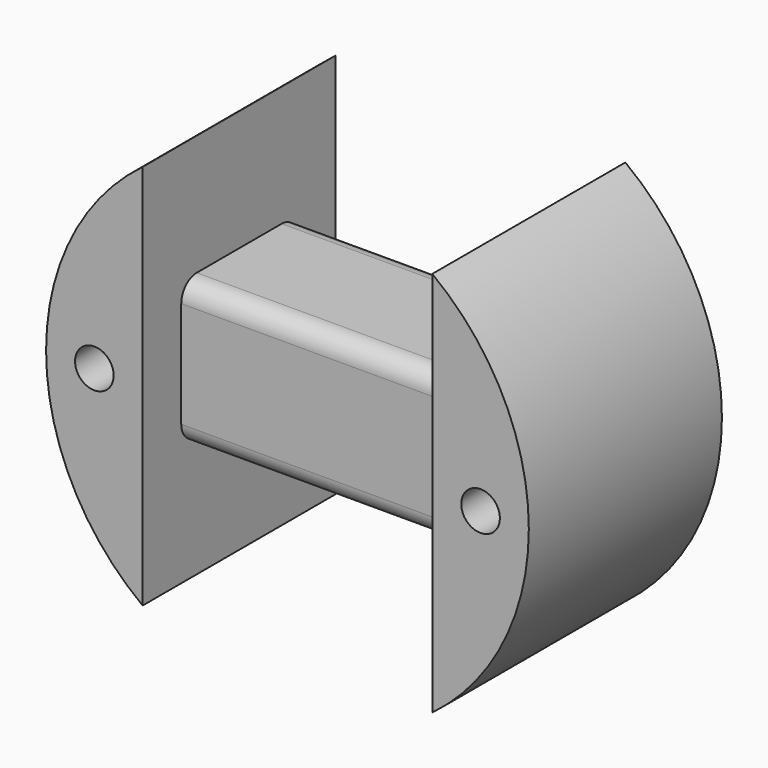
from build123d import *

# Parameters (mm, degrees)
F0_R          = 2
F1_DEPTH      = 25
F2_W          = 30
F2_H          = 12.4809114001
F3_DEPTH      = 25
F3_DEPTH_BACK = 25
F4_R          = 2


with BuildPart() as f1:
    # F0 (on Front) → F1 (new body)
    with BuildSketch(Plane.XZ):
        with BuildLine():
            Line((-15, 7.5), (-15, 20))
            ThreePointArc((-15, 20), (-25, 0), (-15, -20))
            Line((-15, -20), (-15, -7.5))
            Line((-15, -7.5), (15, -7.5))
            Line((15, -7.5), (15, -20))
            ThreePointArc((15, -20), (25, 0), (15, 20))
            Line((15, 20), (15, 7.5))
            Line((15, 7.5), (-15, 7.5))
        make_face()
        with Locations((-20, 0)):
            Circle(F0_R, mode=Mode.SUBTRACT)
        with Locations((20, 0)):
            Circle(F0_R, mode=Mode.SUBTRACT)
    extrude(amount=F1_DEPTH)

    # F2 (on Top) → F3 (cut, two sides)
    with BuildSketch(Plane.XY) as f3_sk:
        with Locations((0, 1.2404557001)):
            Rectangle(F2_W, F2_H)
        with Locations((0, -26.2404557001)):
            Rectangle(F2_W, F2_H)
    extrude(amount=-F3_DEPTH, mode=Mode.SUBTRACT)
    extrude(f3_sk.sketch, amount=F3_DEPTH_BACK, mode=Mode.SUBTRACT)

    # F4
    f4_edges = [f1.edges().sort_by_distance(p)[0] for p in [
        (0, -20, 7.5),
        (0, -20, -7.5),
        (0, -5, -7.5),
        (0, -5, 7.5),
    ]]
    fillet(f4_edges, radius=F4_R)


solid = f1.part
